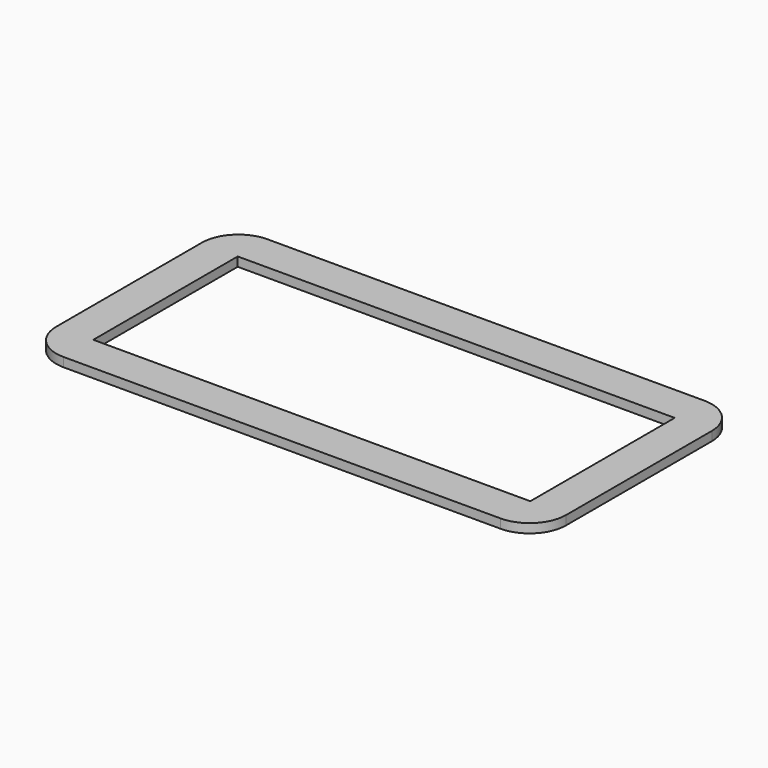
from build123d import *

# Parameters (mm, degrees)
F0_W     = 304.8
F0_H     = 125.8824
F1_DEPTH = 3.175
F2_W     = 355.6
F2_H     = 177.8
F3_DEPTH = 3.175
F4_DEPTH = 12.7
F5_R     = 25.4
F6_R     = 25.4
F7_R     = 25.4
F8_R     = 25.4


with BuildPart() as f1:
    # F0 (on Top) → F1 (new body, symmetric)
    with BuildSketch(Plane.XY):
        Rectangle(F0_W, F0_H)
    extrude(amount=F1_DEPTH, both=True)

    # F2 (on Top) → F3 (join, symmetric)
    with BuildSketch(Plane.XY):
        Rectangle(F2_W, F2_H)
    extrude(amount=F3_DEPTH, both=True)

    # F0 (on Top) → F4 (cut, symmetric)
    with BuildSketch(Plane.XY):
        Rectangle(F0_W, F0_H)
    extrude(amount=F4_DEPTH, both=True, mode=Mode.SUBTRACT)

    # F5
    f5_edges = [f1.edges().sort_by_distance(p)[0] for p in [
        (-177.8, 88.9, 0),
    ]]
    fillet(f5_edges, radius=F5_R)

    # F6
    f6_edges = [f1.edges().sort_by_distance(p)[0] for p in [
        (177.8, 88.9, 0),
    ]]
    fillet(f6_edges, radius=F6_R)

    # F7
    f7_edges = [f1.edges().sort_by_distance(p)[0] for p in [
        (177.8, -88.9, 0),
    ]]
    fillet(f7_edges, radius=F7_R)

    # F8
    f8_edges = [f1.edges().sort_by_distance(p)[0] for p in [
        (-177.8, -88.9, 0),
    ]]
    fillet(f8_edges, radius=F8_R)


solid = f1.part
